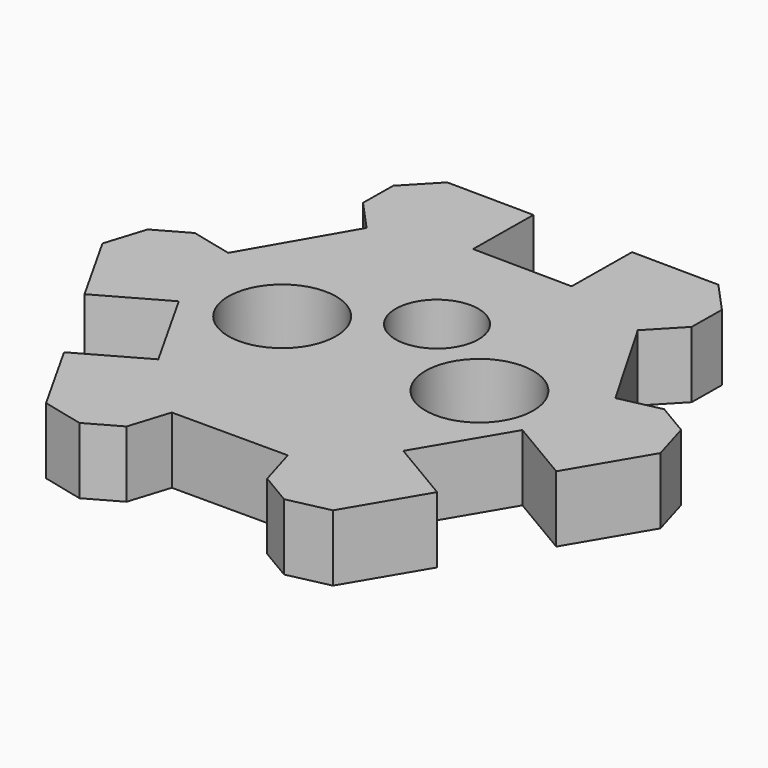
from build123d import *

# Parameters (mm, degrees)
SKETCH_R      = 5
SKETCH_R_2    = 6.5
EXTRUDE_DEPTH = 8


with BuildPart() as part:
    # Sketch → Extrude (new body)
    with BuildSketch(Plane.XY):
        Polygon((92.138212, 71.477997), (99.138212, 59.353641), (104.147683, 60.457133), (108.020931, 58.166292), (109.466872, 53.244732), (104.121576, 44.207154), (96.375081, 48.788836), (90.266171, 38.460176), (98.012666, 33.878494), (92.66737, 24.840916), (87.657898, 23.737425), (83.784651, 26.028266), (82.33871, 30.949826), (68.33871, 30.949826), (66.794519, 26.058201), (62.873968, 23.849291), (57.887594, 25.052863), (52.731628, 34.204082), (60.572729, 38.621903), (54.682302, 49.076704), (46.841201, 44.658884), (41.688919, 53.803566), (43.23311, 58.695191), (47.15366, 60.904101), (52.140035, 59.700529), (59.140035, 71.824885), (55.679647, 75.611469), (55.72695, 80.11122), (59.266176, 83.824222), (69.765596, 83.713849), (69.67099, 74.714346), (81.670327, 74.588205), (81.764933, 83.587708), (92.264353, 83.477334), (95.72474, 79.69075), (95.677437, 75.190999), align=None)
        with Locations((76.588238, 60.640856)):
            Circle(SKETCH_R, mode=Mode.SUBTRACT)
        with Locations((64.201959, 52.770623)):
            Circle(SKETCH_R_2, mode=Mode.SUBTRACT)
        with Locations((88.200633, 52.51834)):
            Circle(SKETCH_R_2, mode=Mode.SUBTRACT)
    extrude(amount=EXTRUDE_DEPTH)


solid = part.part
